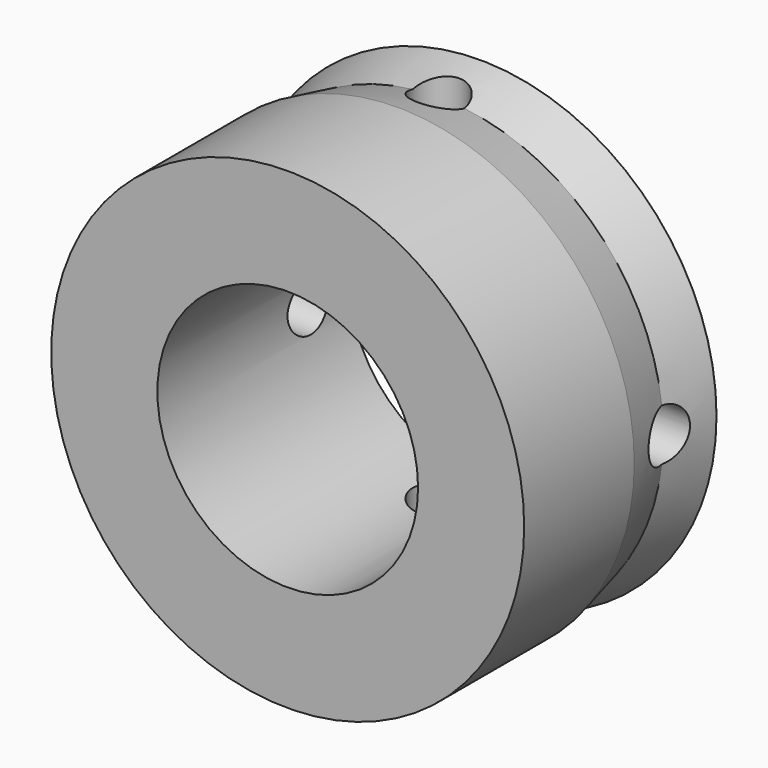
from build123d import *

# Parameters (mm, degrees)
F0_R     = 14.4907
F0_R_2   = 7.9883
F1_DEPTH = 6.35
F2_R     = 14.4907
F2_R_2   = 7.9883
F3_DEPTH = 8.382
F4_R     = 1.5875
F5_DEPTH = 15.1638
F6_R     = 1.5875
F7_DEPTH = 15.4178


with BuildPart() as f1:
    # F0 (on Front) → F1 (new body)
    with BuildSketch(Plane.XZ):
        Circle(F0_R)
        Circle(F0_R_2, mode=Mode.SUBTRACT)
    extrude(amount=F1_DEPTH)

    # F2 (on face) → F3 (join)
    with BuildSketch(Plane.XZ.offset(6.35)):
        Circle(F2_R)
        Circle(F2_R_2, mode=Mode.SUBTRACT)
        Circle(F2_R)
        Circle(F2_R_2, mode=Mode.SUBTRACT)
    extrude(amount=F3_DEPTH)

    # F4 (on Right) → F5 (cut, symmetric)
    with BuildSketch(Plane.YZ):
        with Locations((-3.175, 0)):
            Circle(F4_R)
    extrude(amount=F5_DEPTH, both=True, mode=Mode.SUBTRACT)

    # F6 (on Top) → F7 (cut, symmetric)
    with BuildSketch(Plane.XY):
        with Locations((0, -3.175)):
            Circle(F6_R)
    extrude(amount=F7_DEPTH, both=True, mode=Mode.SUBTRACT)

    # F9: sweep along a path in F0
    with BuildLine(Plane.XZ) as f9_path:
        CenterArc((0, 0), 14.4907, 0, 360)
    # F8 (on Right) → F9 (sweep, cut)
    with BuildSketch(Plane.YZ):
        Polygon((0, 14.501917), (0, 16.049927), (-6.35176, 16.049927), (-6.35176, 14.501917), (-3.17588, 13.768708), align=None)
    sweep(path=f9_path.line, mode=Mode.SUBTRACT)


solid = f1.part
